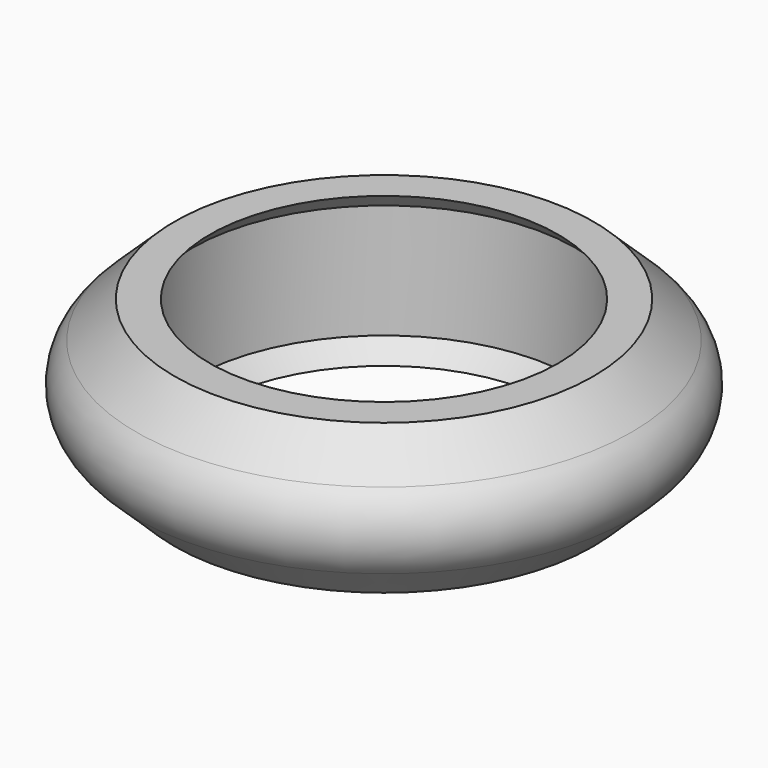
from build123d import *


with BuildPart() as part:
    # Sketch → Revolution (revolve)
    with BuildSketch(Plane.XZ):
        with BuildLine():
            ThreePointArc((14.075183, -2.166475), (15, 0), (14.075183, 2.166475))
            Line((14.075183, 2.166475), (11.9, 4.25))
            Line((11.9, 4.25), (9.9, 4.25))
            Line((9.9, 4.25), (10.9, 3.25))
            Line((10.9, 0), (10.9, 3.25))
            Line((10.9, 0), (10.9, -3.25))
            Line((10.9, -3.25), (9.9, -4.25))
            Line((11.9, -4.25), (9.9, -4.25))
            Line((14.075183, -2.166475), (11.9, -4.25))
        make_face()
    revolve(axis=Axis((0, 0, 0), (0, 0, 1)))


solid = part.part
